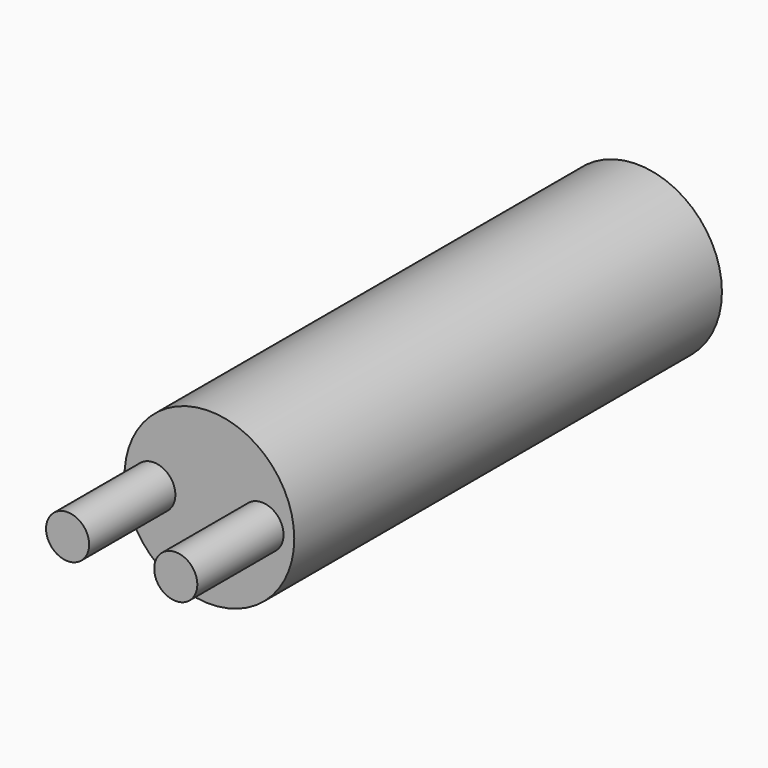
from build123d import *

# Parameters (mm, degrees)
F0_R     = 4.99999
F1_DEPTH = 31.496
F2_R     = 1.27
F3_DEPTH = 6.35


with BuildPart() as f1:
    # F0 (on Front) → F1 (new body)
    with BuildSketch(Plane.XZ):
        Circle(F0_R)
    extrude(amount=-F1_DEPTH)

    # F2 (on face) → F3 (join)
    with BuildSketch(Plane.XZ):
        with Locations((-3.274196, 0)):
            Circle(F2_R)
        with Locations((3.099181, 0)):
            Circle(F2_R)
    extrude(amount=F3_DEPTH)


solid = f1.part
